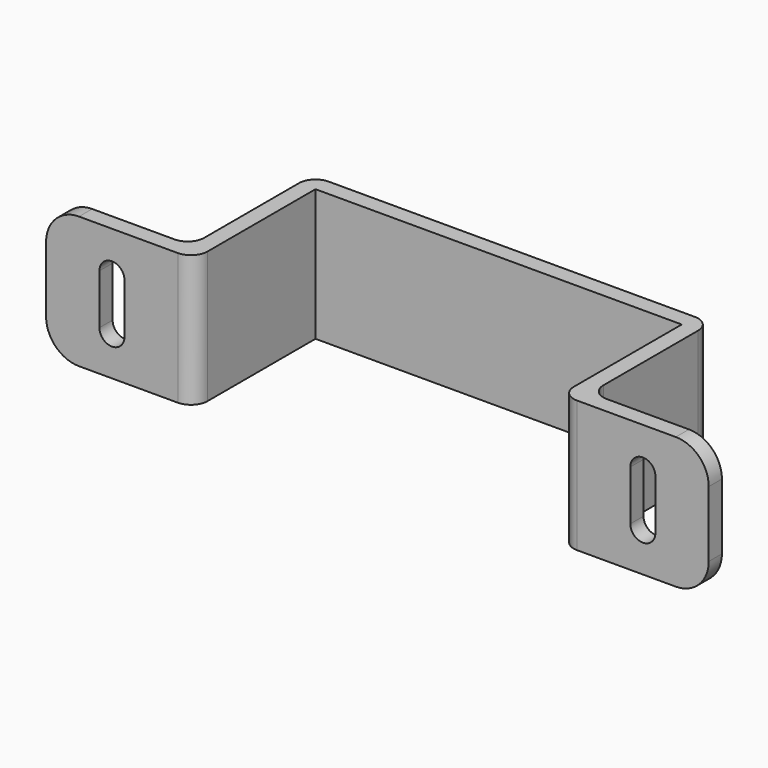
from build123d import *

# Parameters (mm, degrees)
F1_DEPTH = 25.4
F2_R     = 3.175
F4_DEPTH = 32.386
F5_R     = 6.35


with BuildPart() as f1:
    # F0 (on Top) → F1 (new body)
    with BuildSketch(Plane.XY):
        Polygon((-35.306, 29.21), (0, 29.21), (35.306, 29.21), (35.306, 0), (63.881, 0), (63.881, 3.175), (38.481, 3.175), (38.481, 32.385), (0, 32.385), (-38.481, 32.385), (-38.481, 3.175), (-63.881, 3.175), (-63.881, 0), (-35.306, 0), align=None)
    extrude(amount=F1_DEPTH)

    # F2
    f2_edges = [f1.edges().sort_by_distance(p)[0] for p in [
        (-35.306, 0, 12.7),
        (35.306, 0, 12.7),
        (-38.481, 3.175, 12.7),
        (-38.481, 32.385, 12.7),
        (38.481, 32.385, 12.7),
        (38.481, 3.175, 12.7),
    ]]
    fillet(f2_edges, radius=F2_R)

    # F3 (on Front) → F4 (cut, through all)
    with BuildSketch(Plane.XZ):
        with BuildLine():
            ThreePointArc((-53.594, 7.8105), (-51.181, 5.3975), (-48.768, 7.8105))
            Line((-48.768, 7.8105), (-48.768, 17.4625))
            ThreePointArc((-48.768, 17.4625), (-51.181, 19.8755), (-53.594, 17.4625))
            Line((-53.594, 17.4625), (-53.594, 7.8105))
        make_face()
        with BuildLine():
            Line((48.768, 17.4625), (48.768, 7.8105))
            ThreePointArc((48.768, 7.8105), (51.181, 5.3975), (53.594, 7.8105))
            Line((53.594, 7.8105), (53.594, 17.4625))
            ThreePointArc((53.594, 17.4625), (51.181, 19.8755), (48.768, 17.4625))
        make_face()
    extrude(amount=-F4_DEPTH, mode=Mode.SUBTRACT)

    # F5
    f5_edges = [f1.edges().sort_by_distance(p)[0] for p in [
        (-63.881, 1.5875, 0),
        (-63.881, 1.5875, 25.4),
        (63.881, 1.5875, 25.4),
        (63.881, 1.5875, 0),
    ]]
    fillet(f5_edges, radius=F5_R)


solid = f1.part
